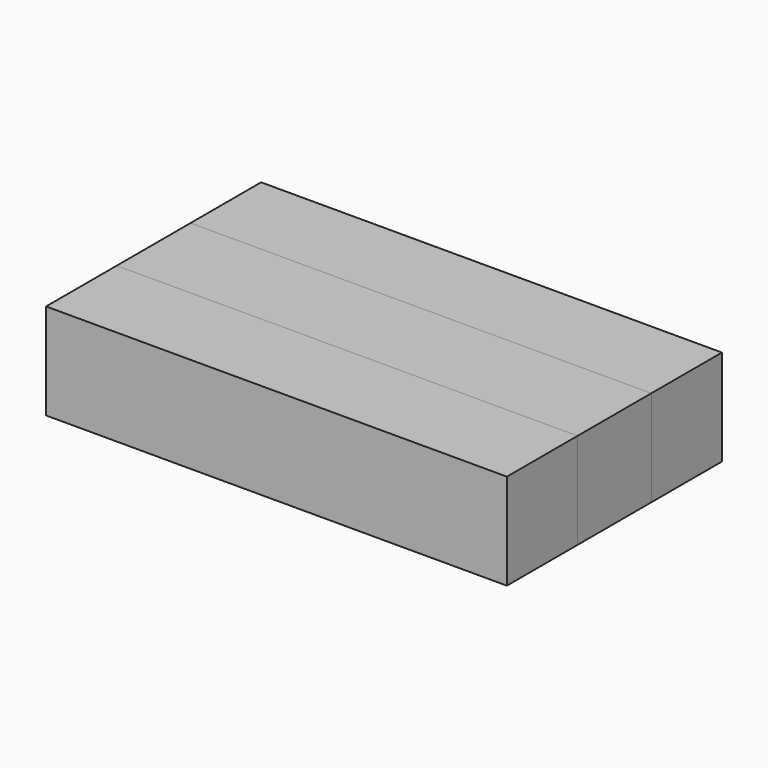
from build123d import *

# Parameters (mm, degrees)
F0_W     = 120
F0_H     = 23
F1_DEPTH = 25
F0_H_2   = 24
F2_DEPTH = 25


with BuildPart() as f1:
    # F0 (on Top) → F1 (new body)
    with BuildSketch(Plane.XY):
        with Locations((3.243002, -35.5)):
            Rectangle(F0_W, F0_H)
        with Locations((3.243002, 11.5)):
            Rectangle(F0_W, F0_H)
    extrude(amount=F1_DEPTH)


with BuildPart() as f2:
    # F0 (on Top) → F2 (new body)
    with BuildSketch(Plane.XY):
        with Locations((3.243002, -12)):
            Rectangle(F0_W, F0_H_2)
    extrude(amount=F2_DEPTH)


solid = Compound([f1.part, f2.part])
